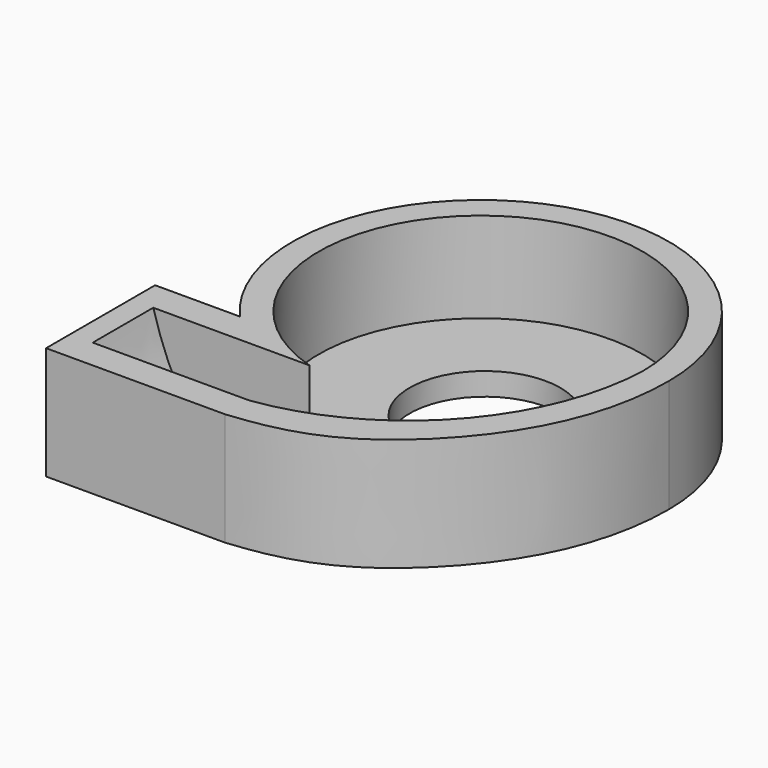
from build123d import *

# Parameters (mm, degrees)
F1_DEPTH = 15
F0_R     = 10
F2_DEPTH = 3
F4_DEPTH = 11
F5_DEPTH = 3


with BuildPart() as f1:
    # F0 (on Top) → F1 (new body)
    with BuildSketch(Plane.XY):
        with BuildLine():
            add(Edge.make_bspline(
                [(25, 0), (25.0087002696, -5.8990169969), (22.1552822861, -16.7434149041), (11.7382328833, -28.4109430259), (2.8895078726, -33.2599749563), (-2.8164344422, -34.2581364978), (-6.2585137784, -34.5978120347)],
                knots=[0, 0, 0, 0, 0.2908567046, 0.5661013385, 0.7856454444, 1, 1, 1, 1], degree=3))
            ThreePointArc((25, 0), (-8.821991792, 23.3917177826), (-18.7737968657, -16.5089233823))
            Line((-18.7737968657, -16.5089233823), (-27.0137283951, -16.5089233823))
            Line((-27.0137283951, -16.5089233823), (-27.0137283951, -20.5689330128))
            Line((-27.0137283951, -20.5689330128), (-23.3377733697, -20.5689330128))
            Line((-23.3377733697, -20.5689330128), (-14.2098203618, -20.5689330128))
            Line((-14.2098203618, -20.5689330128), (-6.2585137784, -20.5689330128))
            ThreePointArc((-6.2585137784, -20.5689330128), (-12.8002334698, 17.2743747533), (21.5, 0))
            ThreePointArc((21.5, 0), (13.189427122, -20.3534456592), (-6.2585137784, -30.6055657566))
            Line((-6.2585137784, -30.6055657566), (-23.3377733697, -30.6055657566))
            Line((-23.3377733697, -30.6055657566), (-27.0137283951, -30.6055657566))
            Line((-27.0137283951, -30.6055657566), (-27.0137283951, -34.5978120347))
            Line((-27.0137283951, -34.5978120347), (-6.2585137784, -34.5978120347))
        make_face()
    extrude(amount=F1_DEPTH)

    # F0 (on Top) → F2 (join)
    with BuildSketch(Plane.XY):
        with BuildLine():
            Line((-23.3377733697, -20.5689330128), (-27.0137283951, -20.5689330128))
            Line((-27.0137283951, -20.5689330128), (-27.0137283951, -21.3873516768))
            Line((-27.0137283951, -21.3873516768), (-27.0137283951, -30.6055657566))
            Line((-27.0137283951, -30.6055657566), (-23.3377733697, -30.6055657566))
            Line((-23.3377733697, -30.6055657566), (-6.2585137784, -30.6055657566))
            ThreePointArc((-6.2585137784, -30.6055657566), (13.189427122, -20.3534456592), (21.5, 0))
            ThreePointArc((21.5, 0), (-12.8002334698, 17.2743747533), (-6.2585137784, -20.5689330128))
            Line((-6.2585137784, -20.5689330128), (-14.2098203618, -20.5689330128))
            Line((-14.2098203618, -20.5689330128), (-23.3377733697, -20.5689330128))
        make_face()
        with Locations((0.5567180342, 0)):
            Circle(F0_R, mode=Mode.SUBTRACT)
    extrude(amount=F2_DEPTH)

    # F3 (on face) → F4 (join)
    with BuildSketch(Plane(origin=(0, -30.6055657566, 0), x_dir=(-1, 0, 0), z_dir=(0, 1, 0))):
        with BuildLine():
            add(Edge.make_bspline(
                [(18.3209385723, 3), (19.5423853219, 3.4077423094), (23.2709452392, 5.8971211647), (25.1604775917, 9.372303958), (26.423119613, 12.9164144641), (27.0137283951, 15)],
                knots=[0, 0, 0, 0, 0.3426311752, 0.6413082257, 1, 1, 1, 1], degree=3))
            Line((18.3209385723, 3), (27.0137283951, 3))
            Line((27.0137283951, 3), (27.0137283951, 15))
        make_face()
    extrude(amount=F4_DEPTH)

    # F5 (add): a face of the model
    f5_faces = [f1.faces().sort_by_distance(p)[0] for p in [
        (-27.0137283951, -25.5533677085, 7.5),
    ]]
    extrude(f5_faces, amount=F5_DEPTH)


solid = f1.part
